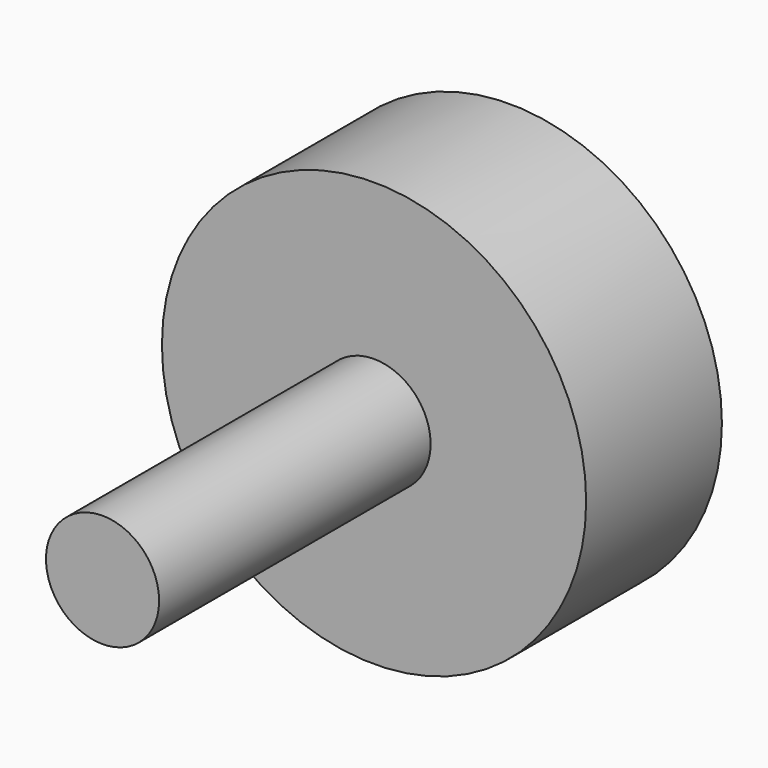
from build123d import *

# Parameters (mm, degrees)
F0_R     = 7.5
F1_DEPTH = 6
F2_R     = 2
F3_DEPTH = 12
F4_R     = 2.3
F5_DEPTH = 2


with BuildPart() as f1:
    # F0 (on Front) → F1 (new body)
    with BuildSketch(Plane.XZ):
        Circle(F0_R)
    extrude(amount=F1_DEPTH)

    # F2 (on face) → F3 (join)
    with BuildSketch(Plane.XZ.offset(6)):
        Circle(F2_R)
    extrude(amount=F3_DEPTH)

    # F4 (on face) → F5 (cut)
    with BuildSketch(Plane(origin=(0, 0, 0), x_dir=(-1, 0, 0), z_dir=(0, 1, 0))):
        with Locations((-4.5, 0)):
            Circle(F4_R)
        with Locations((4.5, 0)):
            Circle(F4_R)
    extrude(amount=-F5_DEPTH, mode=Mode.SUBTRACT)


solid = f1.part
